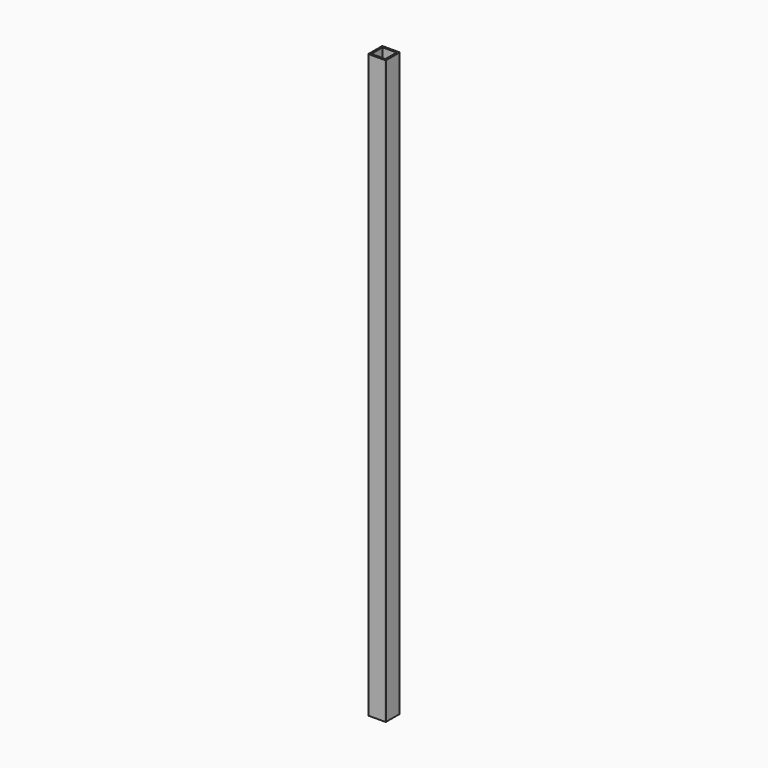
from build123d import *

# Parameters (mm, degrees)
SKETCH_W   = 30
SKETCH_H   = 30
SKETCH_W_2 = 24
SKETCH_H_2 = 24
PAD_DEPTH  = 1000
FILLET_R   = 1


with BuildPart() as part:
    # Sketch → Pad (new body)
    with BuildSketch(Plane.XY):
        with Locations((15, 15)):
            Rectangle(SKETCH_W, SKETCH_H)
        with Locations((15, 15)):
            Rectangle(SKETCH_W_2, SKETCH_H_2, mode=Mode.SUBTRACT)
    extrude(amount=PAD_DEPTH)

    # Fillet
    fillet_edges = [part.edges().sort_by_distance(p)[0] for p in [
        (30, 0, 500),
        (0, 0, 500),
        (0, 30, 500),
        (30, 30, 500),
    ]]
    fillet(fillet_edges, radius=FILLET_R)


solid = part.part
